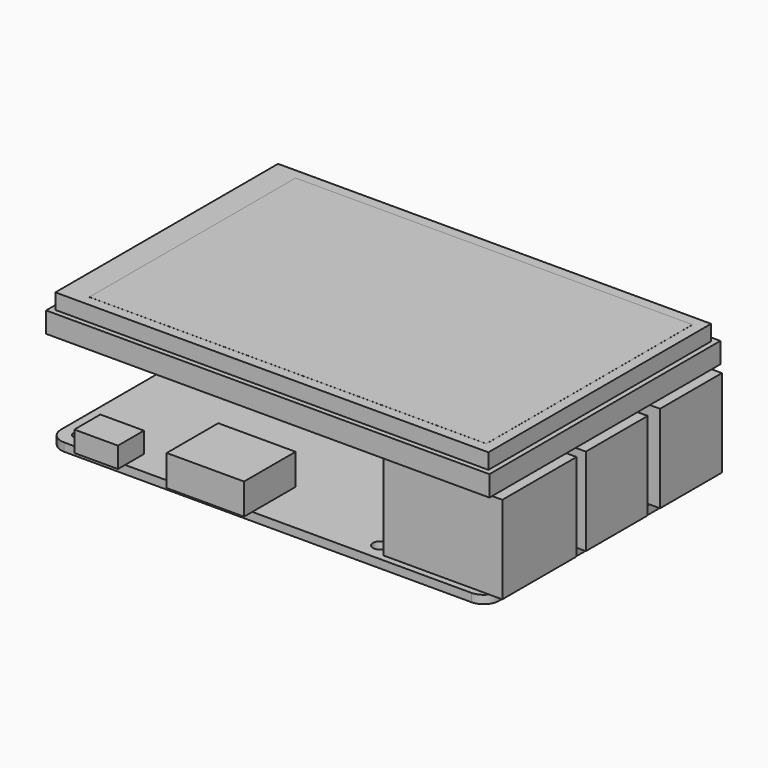
from build123d import *

# Parameters (mm, degrees)
F0_R      = 1.375
F1_DEPTH  = 1.6
F2_W      = 8.457642
F2_H      = 1.740684
F2_H_2    = 4.566714
F3_DEPTH  = 4
F4_W      = 20
F4_H      = 15
F4_W_2    = 23
F4_H_2    = 18
F5_DEPTH  = 17
F6_W      = 15
F6_H      = 12.5
F7_DEPTH  = 6
F9_W      = 84
F9_H      = 54
F10_DEPTH = 3
F11_W     = 77
F11_H     = 50
F12_DEPTH = 0.01
F13_W     = 86
F13_H     = 56
F14_DEPTH = 4


with BuildPart() as f1:
    # F0 (on Top) → F1 (new body)
    with BuildSketch(Plane.XY):
        with BuildLine():
            Line((-39.5, -28), (39.5, -28))
            ThreePointArc((39.5, -28), (41.62132, -27.12132), (42.5, -25))
            Line((42.5, -25), (42.5, 25))
            ThreePointArc((42.5, 25), (41.62132, 27.12132), (39.5, 28))
            Line((39.5, 28), (-39.5, 28))
            ThreePointArc((-39.5, 28), (-41.62132, 27.12132), (-42.5, 25))
            Line((-42.5, 25), (-42.5, -25))
            ThreePointArc((-42.5, -25), (-41.62132, -27.12132), (-39.5, -28))
        make_face()
        with Locations((-39, -24.5)):
            Circle(F0_R, mode=Mode.SUBTRACT)
        with Locations((19, -24.5)):
            Circle(F0_R, mode=Mode.SUBTRACT)
        with Locations((-39, 24.5)):
            Circle(F0_R, mode=Mode.SUBTRACT)
        with Locations((19, 24.5)):
            Circle(F0_R, mode=Mode.SUBTRACT)
    extrude(amount=F1_DEPTH)

    # F2 (on face) → F3 (join)
    with BuildSketch(Plane.XY.offset(1.6)):
        with Locations((-31.9, -28.870342)):
            Rectangle(F2_W, F2_H)
        with Locations((-31.9, -25.716643)):
            Rectangle(F2_W, F2_H_2)
    extrude(amount=F3_DEPTH)

    # F4 (on face) → F5 (join)
    with BuildSketch(Plane.XY.offset(1.6)):
        with Locations((34.5, 19)):
            Rectangle(F4_W, F4_H)
        with Locations((34.5, 1)):
            Rectangle(F4_W, F4_H)
        with Locations((33, -17.75)):
            Rectangle(F4_W_2, F4_H_2)
    extrude(amount=F5_DEPTH)

    # F6 (on face) → F7 (join)
    with BuildSketch(Plane.XY.offset(1.6)):
        with Locations((-10.5, -23.75)):
            Rectangle(F6_W, F6_H)
    extrude(amount=F7_DEPTH)


with BuildPart() as f10:
    # F9 (on offset) → F10 (new body)
    with BuildSketch(Plane.XY.offset(23)):
        Rectangle(F9_W, F9_H)
    extrude(amount=F10_DEPTH)

    # F11 (on face) → F12 (join)
    with BuildSketch(Plane.XY.offset(26)):
        with Locations((1.5, 0)):
            Rectangle(F11_W, F11_H)
    extrude(amount=F12_DEPTH)

    # F13 (on face) → F14 (join)
    with BuildSketch(Plane(origin=(0, 0, 23), x_dir=(1, 0, 0), z_dir=(0, 0, -1))):
        Rectangle(F13_W, F13_H)
    extrude(amount=F14_DEPTH)


solid = Compound([f1.part, f10.part])
